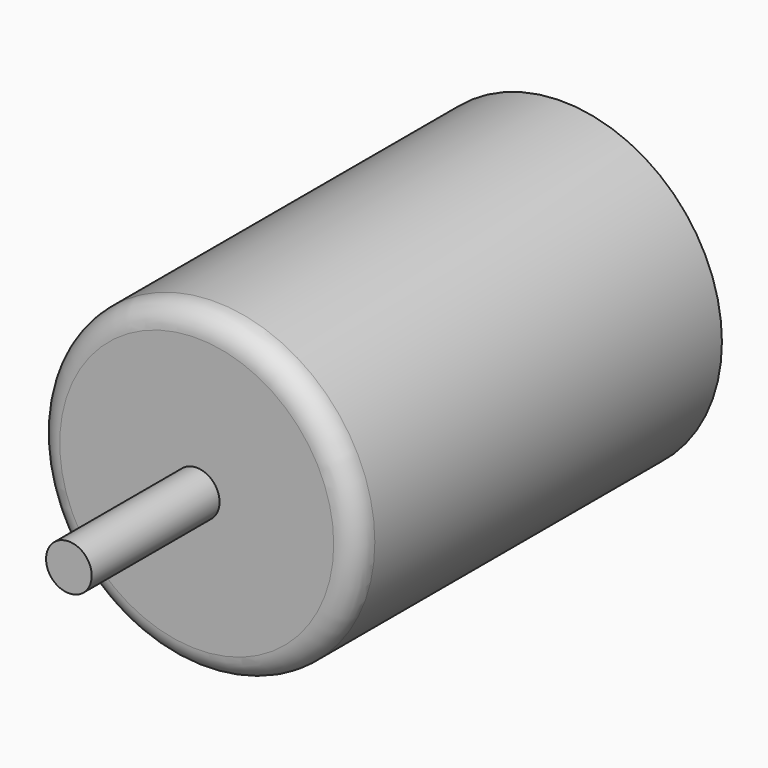
from build123d import *

# Parameters (mm, degrees)
F0_R     = 3.5
F1_DEPTH = 10
F2_R     = 0.5
F3_R     = 0.5
F4_DEPTH = 3.5


with BuildPart() as f1:
    # F0 (on Front) → F1 (new body)
    with BuildSketch(Plane.XZ):
        Circle(F0_R)
    extrude(amount=F1_DEPTH)

    # F2
    f2_edges = [f1.edges().sort_by_distance(p)[0] for p in [
        (-3.5, -10, 0),
    ]]
    fillet(f2_edges, radius=F2_R)

    # F3 (on face) → F4 (join)
    with BuildSketch(Plane.XZ.offset(10)):
        Circle(F3_R)
    extrude(amount=F4_DEPTH)


solid = f1.part
